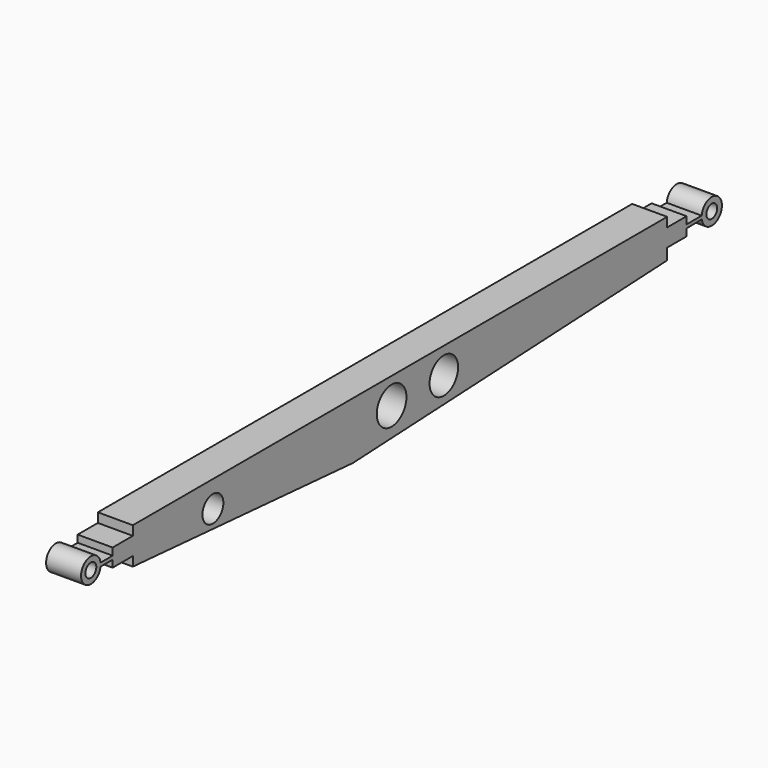
from build123d import *

# Parameters (mm, degrees)
F0_R     = 1.2342692754
F0_R_2   = 1.7514332525
F0_R_3   = 1.6840139575
F0_R_4   = 0.6424379712
F0_R_5   = 0.6344814838
F1_DEPTH = 3.302


with BuildPart() as f1:
    # F0 (on Right) → F1 (new body)
    with BuildSketch(Plane.YZ):
        Polygon((30.1141384989, 0), (0, 0), (-32.9401008785, 0), (-32.9401008785, -0.8831103914), (-32.9401008785, -2.5610264856), (-32.9401008785, -3.4441391472), (-6.9765895605, -5.3869867697), (30.1141384989, -3.6207614467), (30.1141384989, -2.5610264856), (30.1141384989, -0.883640887), align=None)
        with Locations((-23.4924610704, -2.4733557366)):
            Circle(F0_R, mode=Mode.SUBTRACT)
        with Locations((-2.4024450686, -2.4733557366)):
            Circle(F0_R_2, mode=Mode.SUBTRACT)
        with Locations((3.7611864973, -2.4733557366)):
            Circle(F0_R_3, mode=Mode.SUBTRACT)
        Polygon((-32.9401008785, -2.5610264856), (-32.9401008785, -0.8831103914), (-35.3245027363, -0.8831103914), (-35.3245027363, -1.5608620106), (-35.3245027363, -1.7220684385), (-35.3245027363, -1.8952260725), (-35.3245027363, -2.5610264856), align=None)
        Polygon((32.4102304876, -0.883640887), (30.1141384989, -0.883640887), (30.1141384989, -2.5610264856), (32.4102304876, -2.5610264856), (32.4102304876, -1.8952260725), (32.4102304876, -1.7223336863), (32.4102304876, -1.5608620106), align=None)
        with BuildLine():
            Line((-35.3245027363, -1.7220684385), (-35.3245027363, -1.5608620106))
            Line((-35.3245027363, -1.5608620106), (-36.7480435846, -1.5608620106))
            ThreePointArc((-36.7480435846, -1.5608620106), (-36.7395622808, -1.6412672061), (-36.736718196, -1.7220684385))
            Line((-36.736718196, -1.7220684385), (-35.3245027363, -1.7220684385))
        make_face()
        with BuildLine():
            Line((34.18918825, -1.5608620106), (32.4102304876, -1.5608620106))
            Line((32.4102304876, -1.5608620106), (32.4102304876, -1.7223336863))
            Line((32.4102304876, -1.7223336863), (32.4102304876, -1.8952260725))
            Line((32.4102304876, -1.8952260725), (34.1978147229, -1.8702070236))
            ThreePointArc((34.1978147229, -1.8702070236), (34.1834682887, -1.7158143054), (34.18918825, -1.5608620106))
        make_face()
        with BuildLine():
            Line((-36.7497117243, -1.8952260725), (-35.3245027363, -1.8952260725))
            Line((-35.3245027363, -1.8952260725), (-35.3245027363, -1.7220684385))
            Line((-35.3245027363, -1.7220684385), (-36.736718196, -1.7220684385))
            ThreePointArc((-36.736718196, -1.7220684385), (-36.7367181732, -1.7222010624), (-36.7367181656, -1.7223336863))
            ThreePointArc((-36.7367181656, -1.7223336863), (-36.7399711292, -1.8090236652), (-36.7497117243, -1.8952260725))
        make_face()
        with BuildLine():
            ThreePointArc((-36.736718196, -1.7220684385), (-36.7395622808, -1.6412672061), (-36.7480435846, -1.5608620106))
            ThreePointArc((-36.7480435846, -1.5608620106), (-39.050204678, -1.7165627393), (-36.7497117243, -1.8952260725))
            ThreePointArc((-36.7497117243, -1.8952260725), (-36.7399711292, -1.8090236652), (-36.7367181656, -1.7223336863))
            ThreePointArc((-36.7367181656, -1.7223336863), (-36.7367181732, -1.7222010624), (-36.736718196, -1.7220684385))
        make_face()
        with Locations((-37.8934686196, -1.7223336863)):
            Circle(F0_R_4, mode=Mode.SUBTRACT)
        with BuildLine():
            Line((34.1978147229, -1.5608620106), (34.18918825, -1.5608620106))
            ThreePointArc((34.18918825, -1.5608620106), (34.1834682887, -1.7158143054), (34.1978147229, -1.8702070236))
            Line((34.1978147229, -1.8702070236), (34.1978147229, -1.5608620106))
        make_face()
        with BuildLine():
            ThreePointArc((36.5784095148, -1.6824278282), (35.4415677285, -0.4862718496), (34.18918825, -1.5608620106))
            Line((34.18918825, -1.5608620106), (34.1978147229, -1.5608620106))
            Line((34.1978147229, -1.5608620106), (34.1978147229, -1.8702070236))
            ThreePointArc((34.1978147229, -1.8702070236), (35.4748874223, -2.876422446), (36.5784095148, -1.6824278282))
        make_face()
        with Locations((35.3807061911, -1.6824278282)):
            Circle(F0_R_5, mode=Mode.SUBTRACT)
    extrude(amount=F1_DEPTH)


solid = f1.part
